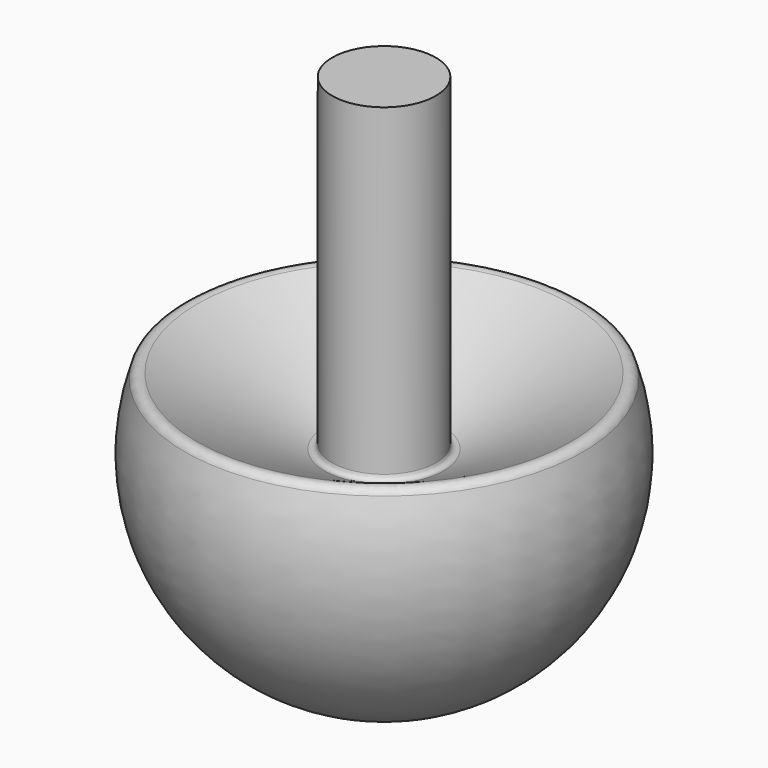
from build123d import *

# Parameters (mm, degrees)
F2_R = 0.5
F3_R = 0.3


with BuildPart() as f1:
    # F0 (on Front) → F1 (revolve)
    with BuildSketch(Plane.XZ):
        with BuildLine():
            Line((0, -12.135852), (0, 19.2))
            Line((0, 19.2), (-3, 19.2))
            Line((-3, 19.2), (-3, 0))
            Line((-3, 0), (-11.319818, 4.375))
            ThreePointArc((-11.319818, 4.375), (-10.009327, -6.862381), (0, -12.135852))
        make_face()
    revolve(axis=Axis((0, 0, 2.5), (0, 0, 1)))

    # F2
    f2_edges = [f1.edges().sort_by_distance(p)[0] for p in [
        (11.319818, 0, 4.375),
    ]]
    fillet(f2_edges, radius=F2_R)

    # F3
    f3_edges = [f1.edges().sort_by_distance(p)[0] for p in [
        (3, 0, 0),
    ]]
    fillet(f3_edges, radius=F3_R)


solid = f1.part
